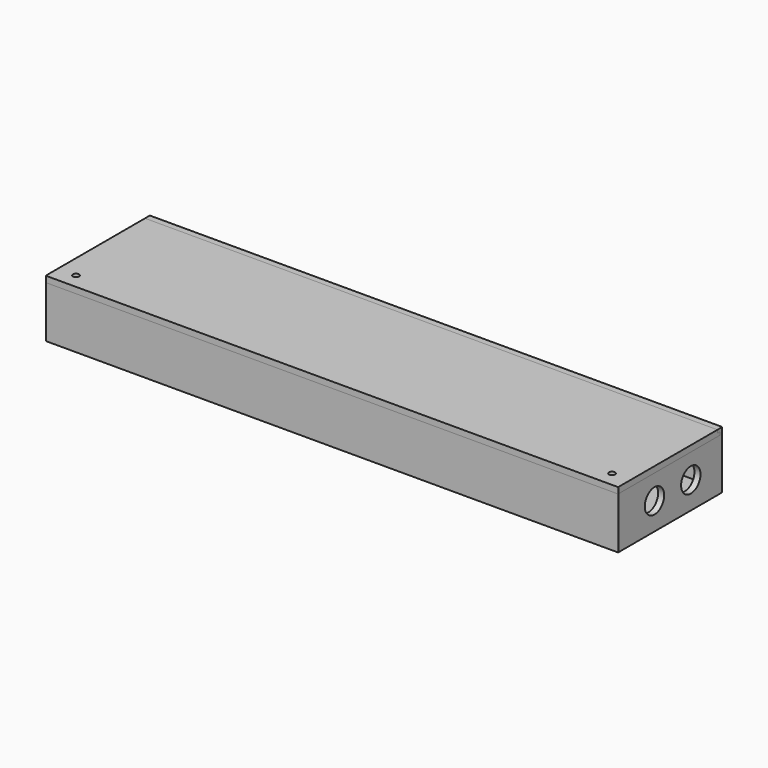
from build123d import *

# Parameters (mm, degrees)
F0_W      = 189
F0_H      = 43
F1_DEPTH  = 17
F2_T      = -2
F3_R      = 4
F4_DEPTH  = 2
F5_W      = 10
F5_H      = 7
F6_DEPTH  = 15
F7_W      = 189
F7_H      = 2
F8_DEPTH  = 2
F9_W      = 189
F9_H      = 1
F10_DEPTH = 1
F11_W     = 60
F11_H     = 25
F12_DEPTH = 0.5
F13_W     = 189
F13_H     = 41
F14_DEPTH = 2
F15_R     = 0.25
F16_R     = 0.25
F17_W     = 189
F17_H     = 1
F18_DEPTH = 1
F19_R     = 1
F20_DEPTH = 2


with BuildPart() as f1:
    # F0 (on Top) → F1 (new body)
    with BuildSketch(Plane.XY):
        Rectangle(F0_W, F0_H)
    extrude(amount=F1_DEPTH)

    # F2
    f2_openings = [f1.faces().sort_by_distance(p)[0] for p in [
        (0, 0, 17),
    ]]
    offset(amount=F2_T, openings=f2_openings)

    # F3 (on face) → F4 (cut, through all)
    with BuildSketch(Plane.YZ.offset(94.5)):
        with Locations((-6.5057606941, 8.915677325)):
            Circle(F3_R)
        with Locations((8.4942393059, 8.915677325)):
            Circle(F3_R)
    extrude(amount=-F4_DEPTH, mode=Mode.SUBTRACT)

    # F5 (on face) → F6 (join, through all)
    with BuildSketch(Plane.XY.offset(2)):
        with Locations((-87.5, -16)):
            Rectangle(F5_W, F5_H)
        with Locations((87.5, -16)):
            Rectangle(F5_W, F5_H)
    extrude(amount=F6_DEPTH)

    # F7 (on face) → F8 (join)
    with BuildSketch(Plane.XY.offset(17)):
        with Locations((0, 20.5)):
            Rectangle(F7_W, F7_H)
    extrude(amount=F8_DEPTH)

    # F9 (on face) → F10 (cut)
    with BuildSketch(Plane.XZ.offset(-19.5)):
        with Locations((0, 17.5)):
            Rectangle(F9_W, F9_H)
    extrude(amount=-F10_DEPTH, mode=Mode.SUBTRACT)

    # F11 (on face) → F12 (cut)
    with BuildSketch(Plane.XY.offset(2)):
        with Locations((-62.5, 7)):
            Rectangle(F11_W, F11_H)
    extrude(amount=-F12_DEPTH, mode=Mode.SUBTRACT)

    # F15
    f15_edges = [f1.edges().sort_by_distance(p)[0] for p in [
        (92.5, 19.5, 9.5),
        (82.5, -12.5, 9.5),
        (92.5, -12.5, 9.5),
        (82.5, -19.5, 9.5),
        (-92.5, 19.5, 9.25),
        (-82.5, -12.5, 9.5),
        (-82.5, -19.5, 9.5),
        (-92.5, -12.5, 9.5),
        (-94.5, -21.5, 8.5),
        (-94.5, 21.5, 9.5),
        (94.5, -21.5, 8.5),
        (94.5, 21.5, 9.5),
    ]]
    fillet(f15_edges, radius=F15_R)


with BuildPart() as f14:
    # F13 (on face) → F14 (new body)
    with BuildSketch(Plane.XY.offset(17)):
        with Locations((0, -1)):
            Rectangle(F13_W, F13_H)
    extrude(amount=F14_DEPTH)

    # F16
    f16_edges = [f14.edges().sort_by_distance(p)[0] for p in [
        (-94.5, -21.5, 18),
        (94.5, -21.5, 18),
    ]]
    fillet(f16_edges, radius=F16_R)

    # F17 (on face) → F18 (join)
    with BuildSketch(Plane(origin=(0, 19.5, 0), x_dir=(-1, 0, 0), z_dir=(0, 1, 0))):
        with Locations((0, 17.5)):
            Rectangle(F17_W, F17_H)
    extrude(amount=F18_DEPTH)

    # F19 (on face) → F20 (cut)
    with BuildSketch(Plane.XY.offset(19)):
        with Locations((-88.5, -16.5)):
            Circle(F19_R)
        with Locations((88.5, -16.5)):
            Circle(F19_R)
    extrude(amount=-F20_DEPTH, mode=Mode.SUBTRACT)


solid = Compound([f1.part, f14.part])
